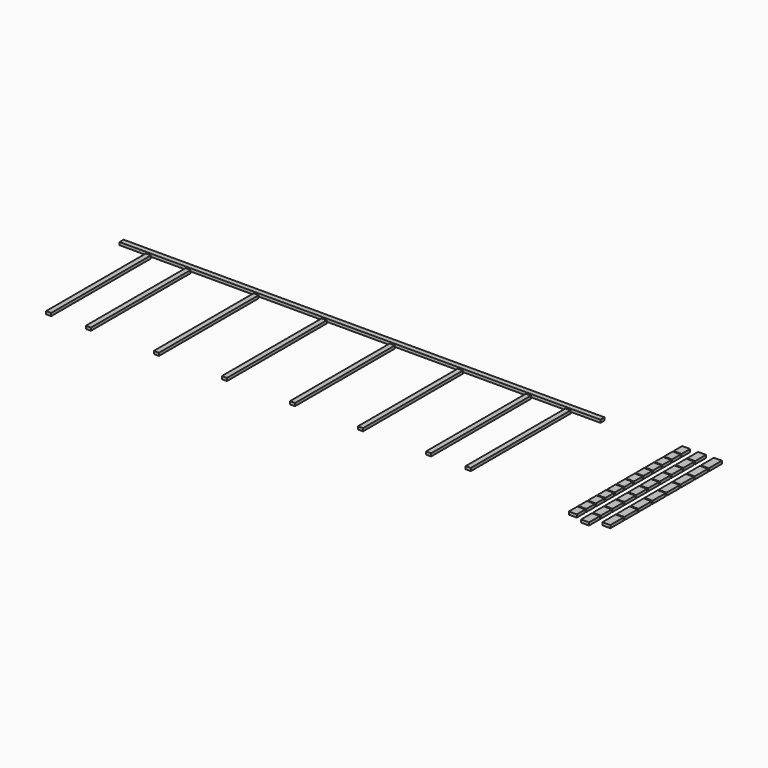
from build123d import *

# Parameters (mm, degrees)
F0_W     = 4240
F0_H     = 45
F0_W_2   = 45
F0_H_2   = 1100
F0_W_3   = 70
F0_H_3   = 95
F0_H_4   = 120
F0_H_5   = 145
F1_DEPTH = 25


with BuildPart() as f1:
    # F0 (on Top) → F1 (new body)
    with BuildSketch(Plane.XY):
        with Locations((0, 22.5)):
            Rectangle(F0_W, F0_H)
        with Locations((-1500, -570)):
            Rectangle(F0_W_2, F0_H_2)
        with Locations((2839.933071, -2.5)):
            Rectangle(F0_W_3, F0_H_3)
        with Locations((2839.933071, -107.5)):
            Rectangle(F0_W_3, F0_H_3)
        with Locations((2839.933071, -212.5)):
            Rectangle(F0_W_3, F0_H_3)
        with Locations((2839.933071, -317.5)):
            Rectangle(F0_W_3, F0_H_3)
        with Locations((2839.933071, -422.5)):
            Rectangle(F0_W_3, F0_H_3)
        with Locations((2839.933071, -527.5)):
            Rectangle(F0_W_3, F0_H_3)
        with Locations((2839.933071, -632.5)):
            Rectangle(F0_W_3, F0_H_3)
        with Locations((2839.933071, -737.5)):
            Rectangle(F0_W_3, F0_H_3)
        with Locations((2839.933071, -842.5)):
            Rectangle(F0_W_3, F0_H_3)
        with Locations((2839.933071, -947.5)):
            Rectangle(F0_W_3, F0_H_3)
        with Locations((2839.933071, -1052.5)):
            Rectangle(F0_W_3, F0_H_3)
        with Locations((2839.933071, -1157.5)):
            Rectangle(F0_W_3, F0_H_3)
        with Locations((-900, -570)):
            Rectangle(F0_W_2, F0_H_2)
        with Locations((-300, -570)):
            Rectangle(F0_W_2, F0_H_2)
        with Locations((300, -570)):
            Rectangle(F0_W_2, F0_H_2)
        with Locations((900, -570)):
            Rectangle(F0_W_2, F0_H_2)
        with Locations((1500, -570)):
            Rectangle(F0_W_2, F0_H_2)
        with Locations((2979.933071, -15)):
            Rectangle(F0_W_3, F0_H_4)
        with Locations((3119.933071, -27.5)):
            Rectangle(F0_W_3, F0_H_5)
        with Locations((2979.933071, -145)):
            Rectangle(F0_W_3, F0_H_4)
        with Locations((2979.933071, -275)):
            Rectangle(F0_W_3, F0_H_4)
        with Locations((2979.933071, -405)):
            Rectangle(F0_W_3, F0_H_4)
        with Locations((2979.933071, -535)):
            Rectangle(F0_W_3, F0_H_4)
        with Locations((2979.933071, -665)):
            Rectangle(F0_W_3, F0_H_4)
        with Locations((2979.933071, -795)):
            Rectangle(F0_W_3, F0_H_4)
        with Locations((2979.933071, -925)):
            Rectangle(F0_W_3, F0_H_4)
        with Locations((2979.933071, -1055)):
            Rectangle(F0_W_3, F0_H_4)
        with Locations((2979.933071, -1185)):
            Rectangle(F0_W_3, F0_H_4)
        with Locations((3119.933071, -182.5)):
            Rectangle(F0_W_3, F0_H_5)
        with Locations((3119.933071, -337.5)):
            Rectangle(F0_W_3, F0_H_5)
        with Locations((3119.933071, -492.5)):
            Rectangle(F0_W_3, F0_H_5)
        with Locations((3119.933071, -647.5)):
            Rectangle(F0_W_3, F0_H_5)
        with Locations((3119.933071, -802.5)):
            Rectangle(F0_W_3, F0_H_5)
        with Locations((3119.933071, -957.5)):
            Rectangle(F0_W_3, F0_H_5)
        with Locations((3119.933071, -1112.5)):
            Rectangle(F0_W_3, F0_H_5)
        with Locations((1850, -570)):
            Rectangle(F0_W_2, F0_H_2)
        with Locations((-1850, -570)):
            Rectangle(F0_W_2, F0_H_2)
    extrude(amount=F1_DEPTH)


solid = f1.part
